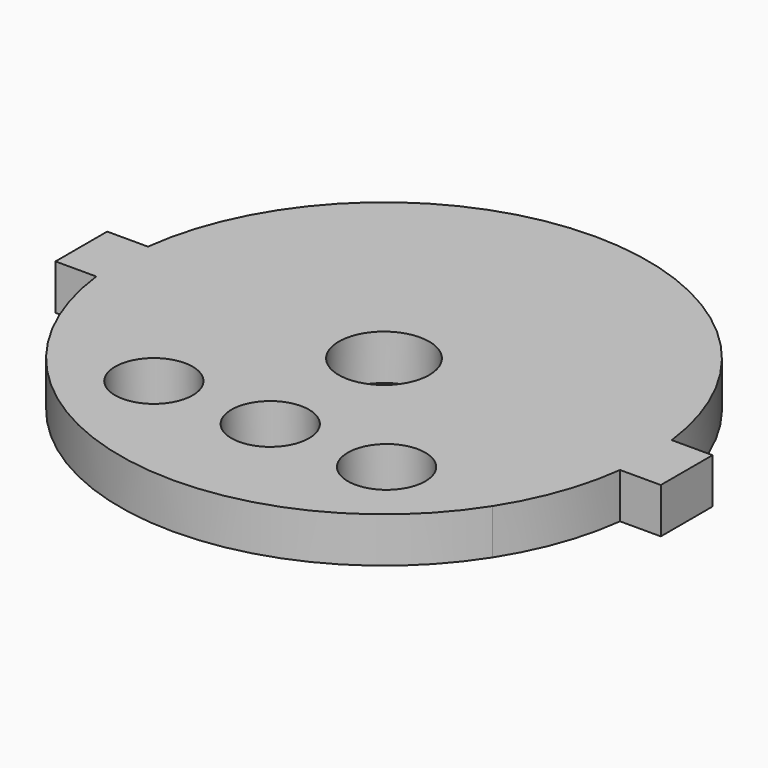
from build123d import *

# Parameters (mm, degrees)
F0_R     = 3.5
F1_DEPTH = 3.5


with BuildPart() as f1:
    # F0 (on Top) → F1 (new body)
    with BuildSketch(Plane.XY):
        with BuildLine():
            Line((17.412545, 2.5), (20.258875, 2.5))
            ThreePointArc((20.258875, 2.5), (0, 20.412545), (-20.258875, 2.5))
            Line((-20.258875, 2.5), (-17.412545, 2.5))
            Line((-17.412545, 2.5), (-17.412545, -2.5))
            Line((-17.412545, -2.5), (-20.258875, -2.5))
            ThreePointArc((-20.258875, -2.5), (-19.203199, -6.921644), (-17.195116, -11))
            Line((-17.195116, -11), (-12, -11))
            ThreePointArc((-12, -11), (-9, -8), (-6, -11))
            Line((-6, -11), (-3, -11))
            ThreePointArc((-3, -11), (0, -8), (3, -11))
            Line((3, -11), (6, -11))
            ThreePointArc((6, -11), (9, -8), (12, -11))
            Line((12, -11), (17.195116, -11))
            ThreePointArc((17.195116, -11), (19.203199, -6.921644), (20.258875, -2.5))
            Line((20.258875, -2.5), (17.412545, -2.5))
            Line((17.412545, -2.5), (17.412545, 2.5))
        make_face()
        Circle(F0_R, mode=Mode.SUBTRACT)
        with BuildLine():
            ThreePointArc((-17.195116, -11), (0, -20.412545), (17.195116, -11))
            Line((17.195116, -11), (12, -11))
            ThreePointArc((12, -11), (9, -14), (6, -11))
            Line((6, -11), (3, -11))
            ThreePointArc((3, -11), (0, -14), (-3, -11))
            Line((-3, -11), (-6, -11))
            ThreePointArc((-6, -11), (-9, -14), (-12, -11))
            Line((-12, -11), (-17.195116, -11))
        make_face()
        with BuildLine():
            Line((-17.412545, 2.5), (-20.258875, 2.5))
            ThreePointArc((-20.258875, 2.5), (-20.412545, 0), (-20.258875, -2.5))
            Line((-20.258875, -2.5), (-17.412545, -2.5))
            Line((-17.412545, -2.5), (-17.412545, 2.5))
        make_face()
        with BuildLine():
            ThreePointArc((-20.258875, -2.5), (-20.412545, 0), (-20.258875, 2.5))
            Line((-20.258875, 2.5), (-23.412545, 2.5))
            Line((-23.412545, 2.5), (-23.412545, -2.5))
            Line((-23.412545, -2.5), (-20.258875, -2.5))
        make_face()
        with BuildLine():
            ThreePointArc((20.258875, -2.5), (20.374091, -1.252359), (20.412545, 0))
            ThreePointArc((20.412545, 0), (20.374091, 1.252359), (20.258875, 2.5))
            Line((20.258875, 2.5), (17.412545, 2.5))
            Line((17.412545, 2.5), (17.412545, -2.5))
            Line((17.412545, -2.5), (20.258875, -2.5))
        make_face()
        with BuildLine():
            ThreePointArc((20.258875, 2.5), (20.374091, 1.252359), (20.412545, 0))
            ThreePointArc((20.412545, 0), (20.374091, -1.252359), (20.258875, -2.5))
            Line((20.258875, -2.5), (23.412545, -2.5))
            Line((23.412545, -2.5), (23.412545, 2.5))
            Line((23.412545, 2.5), (20.258875, 2.5))
        make_face()
    extrude(amount=F1_DEPTH)


solid = f1.part
